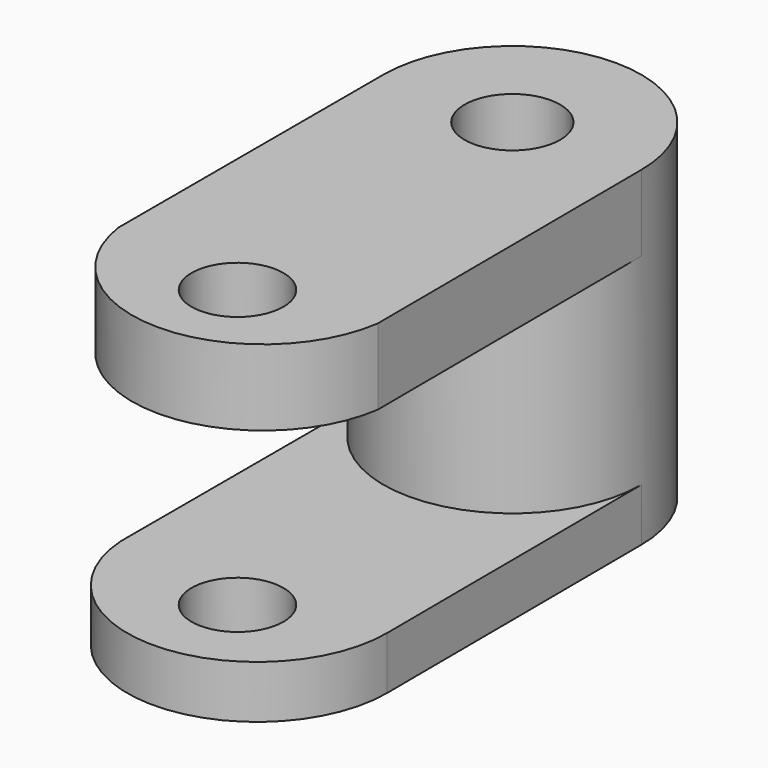
from build123d import *

# Parameters (mm, degrees)
F0_R     = 29.759275958
F1_DEPTH = 76.2
F2_R     = 11.0284850213
F3_DEPTH = 120.142
F5_DEPTH = 12.192
F7_DEPTH = 17.526
F8_R     = 10.6000065129
F9_DEPTH = 148.59


with BuildPart() as f1:
    # F0 (on Top) → F1 (new body)
    with BuildSketch(Plane.XY):
        with Locations((-30.121833086, 0)):
            Circle(F0_R)
    extrude(amount=F1_DEPTH)

    # F2 (on face) → F3 (cut)
    with BuildSketch(Plane.XY.offset(76.2)):
        with Locations((-30.121833086, 0)):
            Circle(F2_R)
    extrude(amount=-F3_DEPTH, mode=Mode.SUBTRACT)

    # F4 (on face) → F5 (join)
    with BuildSketch(Plane(origin=(0, 0, 0), x_dir=(1, 0, 0), z_dir=(0, 0, -1))):
        with BuildLine():
            Line((-59.8811090441, 75.7926106453), (-59.8811090441, 0))
            ThreePointArc((-59.8811090441, 0), (-30.121833086, 29.759275958), (-0.362557128, 0))
            Line((-0.362557128, 0), (0, 73.8646537066))
            ThreePointArc((0, 73.8646537066), (-29.0071131969, 103.8207225337), (-59.8811090441, 75.7926106453))
        make_face()
    extrude(amount=-F5_DEPTH)

    # F6 (on face) → F7 (join)
    with BuildSketch(Plane.XY.offset(76.2)):
        with BuildLine():
            Line((0, -76.4673426747), (-0.362557128, 0))
            ThreePointArc((-0.362557128, 0), (-30.121833086, -29.759275958), (-59.8811090441, 0))
            Line((-59.8811090441, 0), (-59.8811090441, -76.4673426747))
            ThreePointArc((-59.8811090441, -76.4673426747), (-29.940554522, -102.4194670942), (0, -76.4673426747))
        make_face()
    extrude(amount=-F7_DEPTH)

    # F8 (on face) → F9 (cut)
    with BuildSketch(Plane.XY.offset(76.2)):
        with Locations((-27.9265381396, -82.0572450757)):
            Circle(F8_R)
    extrude(amount=-F9_DEPTH, mode=Mode.SUBTRACT)


solid = f1.part
